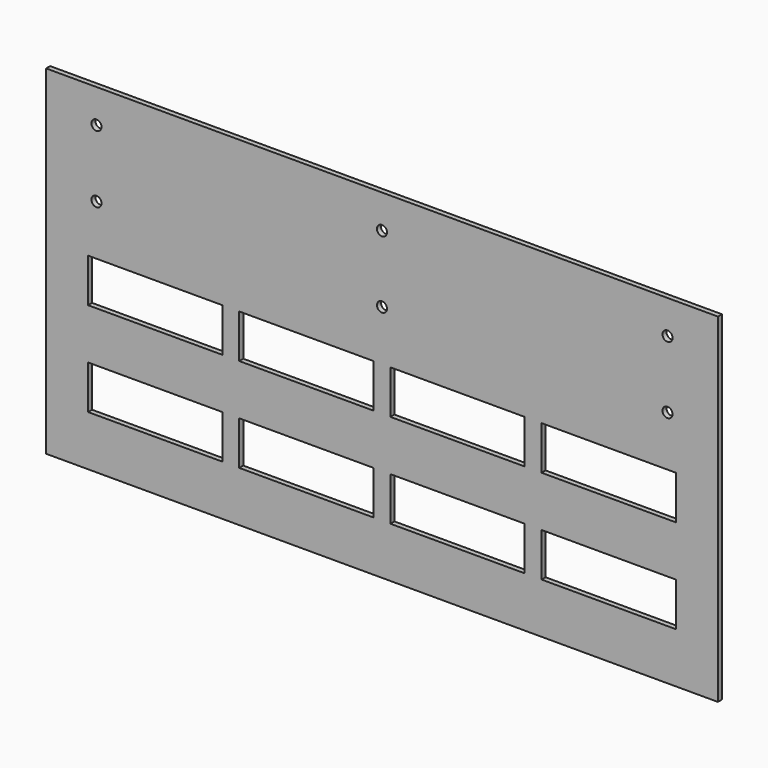
from build123d import *

# Parameters (mm, degrees)
F0_W     = 200
F0_H     = 61
F0_W_2   = 40
F0_H_2   = 13
F0_H_3   = 40
F0_R     = 1.5
F1_DEPTH = 1.5


with BuildPart() as f1:
    # F0 (on Front) → F1 (new body)
    with BuildSketch(Plane.XZ):
        with Locations((100, 30.5)):
            Rectangle(F0_W, F0_H)
        with Locations((32.5, 21.5)):
            Rectangle(F0_W_2, F0_H_2, mode=Mode.SUBTRACT)
        with Locations((77.5, 21.5)):
            Rectangle(F0_W_2, F0_H_2, mode=Mode.SUBTRACT)
        with Locations((32.5, 49.5)):
            Rectangle(F0_W_2, F0_H_2, mode=Mode.SUBTRACT)
        with Locations((77.5, 49.5)):
            Rectangle(F0_W_2, F0_H_2, mode=Mode.SUBTRACT)
        with Locations((122.5, 21.5)):
            Rectangle(F0_W_2, F0_H_2, mode=Mode.SUBTRACT)
        with Locations((167.5, 21.5)):
            Rectangle(F0_W_2, F0_H_2, mode=Mode.SUBTRACT)
        with Locations((122.5, 49.5)):
            Rectangle(F0_W_2, F0_H_2, mode=Mode.SUBTRACT)
        with Locations((167.5, 49.5)):
            Rectangle(F0_W_2, F0_H_2, mode=Mode.SUBTRACT)
        with Locations((100, 81)):
            Rectangle(F0_W, F0_H_3)
        with Locations((15, 71)):
            Circle(F0_R, mode=Mode.SUBTRACT)
        with Locations((15, 91)):
            Circle(F0_R, mode=Mode.SUBTRACT)
        with Locations((100, 71)):
            Circle(F0_R, mode=Mode.SUBTRACT)
        with Locations((185, 71)):
            Circle(F0_R, mode=Mode.SUBTRACT)
        with Locations((100, 91)):
            Circle(F0_R, mode=Mode.SUBTRACT)
        with Locations((185, 91)):
            Circle(F0_R, mode=Mode.SUBTRACT)
    extrude(amount=F1_DEPTH)


solid = f1.part
